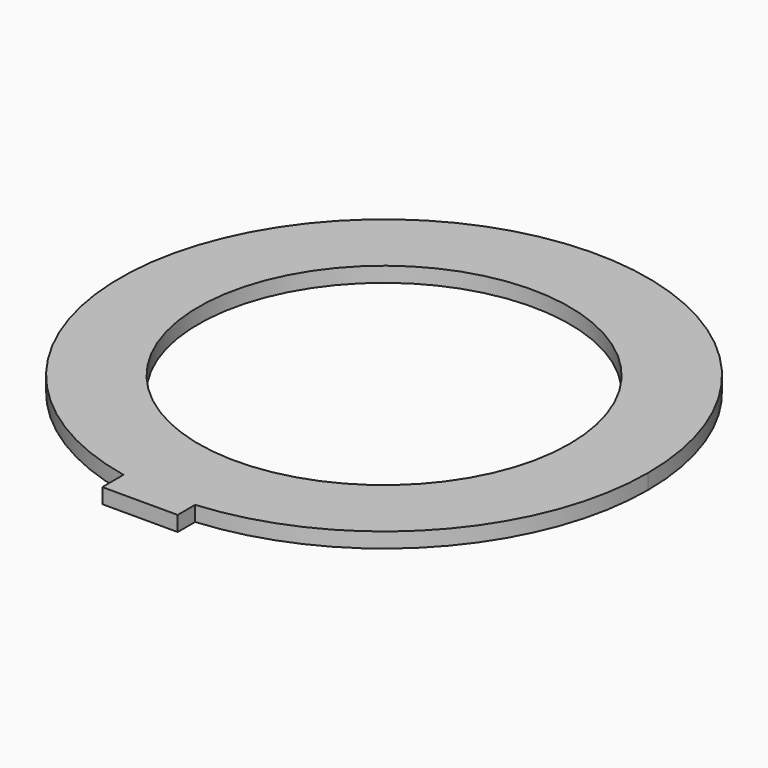
from build123d import *

# Parameters (mm, degrees)
F0_R     = 31.242
F1_DEPTH = 2.54


with BuildPart() as f1:
    # F0 (on Top) → F1 (new body)
    with BuildSketch(Plane.XY):
        with BuildLine():
            ThreePointArc((3.628571, -44.301647), (32.688626, -30.120695), (44.45, 0))
            ThreePointArc((44.45, 0), (-28.040841, 34.489328), (-9.071429, -43.5145))
            ThreePointArc((-9.071429, -43.5145), (-2.749741, -44.364867), (3.628571, -44.301647))
        make_face()
        Circle(F0_R, mode=Mode.SUBTRACT)
        with BuildLine():
            ThreePointArc((3.628571, -44.301647), (-2.749741, -44.364867), (-9.071429, -43.5145))
            Line((-9.071429, -43.5145), (-9.071429, -47.97935))
            Line((-9.071429, -47.97935), (3.628571, -47.97935))
            Line((3.628571, -47.97935), (3.628571, -44.301647))
        make_face()
    extrude(amount=F1_DEPTH)


solid = f1.part
